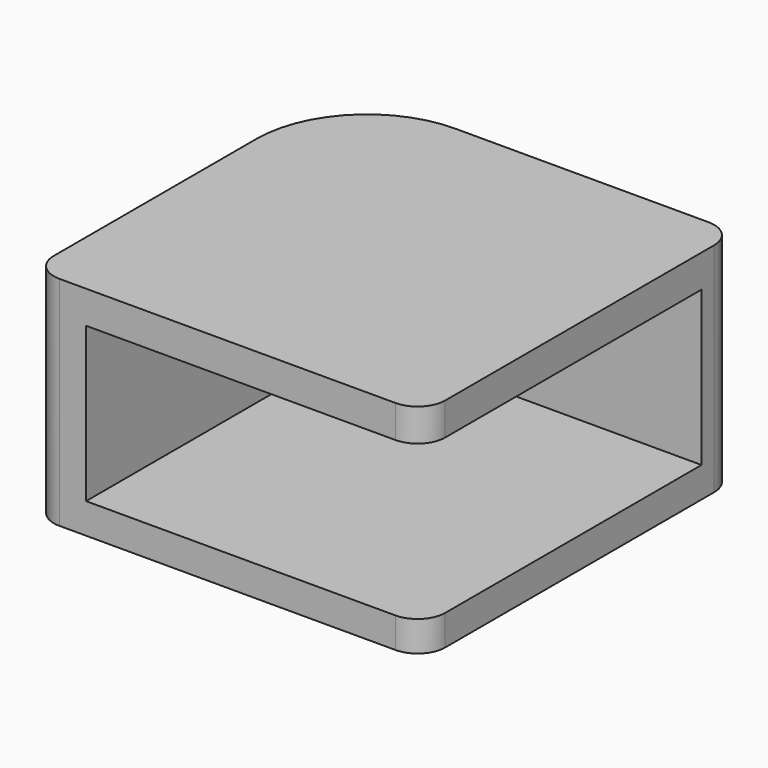
from build123d import *

# Parameters (mm, degrees)
F0_W     = 18
F0_H     = 18
F1_DEPTH = 10
F2_W     = 15.5
F2_H     = 7.1
F3_DEPTH = 16
F4_R     = 5.08
F5_R     = 5.08
F6_R     = 1.27


with BuildPart() as f1:
    # F0 (on Top) → F1 (new body)
    with BuildSketch(Plane.XY):
        Rectangle(F0_W, F0_H)
    extrude(amount=F1_DEPTH)

    # F2 (on face) → F3 (cut)
    with BuildSketch(Plane.XZ.offset(9)):
        with Locations((1.25, 4.95)):
            Rectangle(F2_W, F2_H)
    extrude(amount=-F3_DEPTH, mode=Mode.SUBTRACT)

    # F4
    f4_edges = [f1.edges().sort_by_distance(p)[0] for p in [
        (-9, 9, 5),
    ]]
    fillet(f4_edges, radius=F4_R)

    # F5
    f5_edges = [f1.edges().sort_by_distance(p)[0] for p in [
        (-6.5, 7, 4.95),
    ]]
    fillet(f5_edges, radius=F5_R)

    # F6
    f6_edges = [f1.edges().sort_by_distance(p)[0] for p in [
        (-9, -9, 5),
        (9, 9, 5),
        (9, -9, 0.7),
        (9, -9, 9.25),
    ]]
    fillet(f6_edges, radius=F6_R)


solid = f1.part
